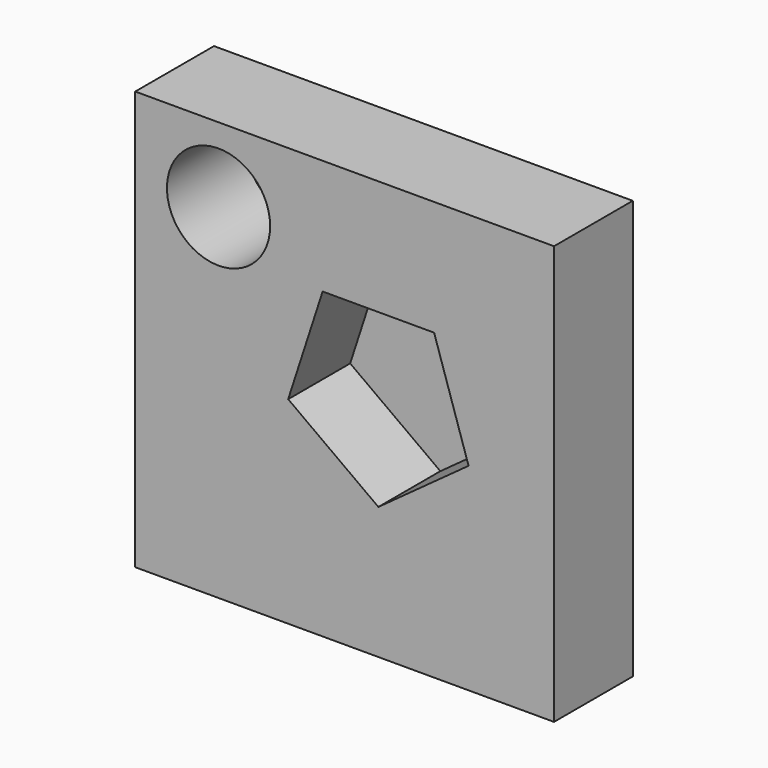
from build123d import *

# Parameters (mm, degrees)
F1_DEPTH = 2.54
F0_W     = 50.8
F0_H     = 50.8
F0_R     = 6.257953
F2_DEPTH = 11.938


with BuildPart() as f1:
    # F0 (on Front) → F1 (new body)
    with BuildSketch(Plane.XZ):
        Polygon((-64.329716, 36.838207), (-77.852843, 36.838207), (-82.031719, 23.976949), (-71.091279, 16.028254), (-60.150839, 23.976949), align=None)
    extrude(amount=F1_DEPTH)


with BuildPart() as f2:
    # F0 (on Front) → F2 (new body)
    with BuildSketch(Plane.XZ):
        with Locations((-75.183996, 25.4)):
            Rectangle(F0_W, F0_H)
        with Locations((-90.479806, 41.749969)):
            Circle(F0_R, mode=Mode.SUBTRACT)
        Polygon((-82.031719, 23.976949), (-77.852843, 36.838207), (-64.329716, 36.838207), (-60.150839, 23.976949), (-71.091279, 16.028254), align=None, mode=Mode.SUBTRACT)
    extrude(amount=F2_DEPTH)


solid = Compound([f1.part, f2.part])
